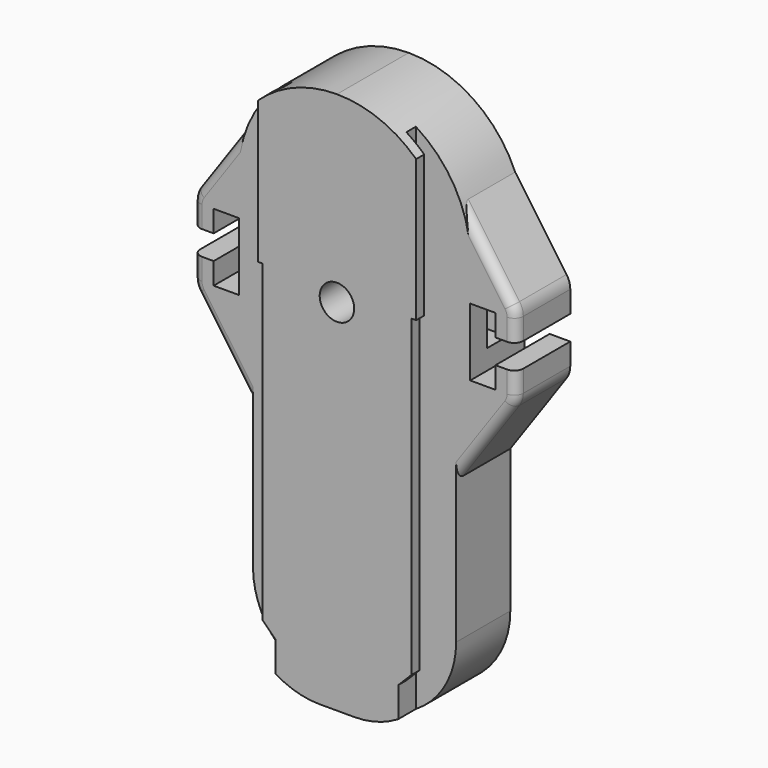
from build123d import *

# Parameters (mm, degrees)
SKETCH_W             = 27.1622
SKETCH_H             = 120.2182
PAD_DEPTH            = 4.8768
SKETCH001_W          = 35.087
SKETCH001_H          = 120.2182
PAD001_DEPTH         = 2.24
SKETCH002_W          = 55.087
SKETCH002_H          = 140.2182
POCKET_DEPTH         = 4.8778
PAD002_DEPTH         = 15
SKETCH004_W          = 71.2318
SKETCH004_H          = 140.2182
POCKET001_DEPTH      = 15.001
POCKET001_DEPTH_BACK = 4.8778
PAD008_DEPTH         = 15
SKETCH018_W          = 5.6
SKETCH018_H          = 15.6
POCKET007_DEPTH      = 31.2159
SKETCH019_W          = 8.22
SKETCH019_H          = 8.22
POCKET008_DEPTH      = 110.739
SKETCH022_R          = 3.8179
POCKET010_DEPTH      = 9.525
FILLET006_R          = 2
FILLET007_R          = 2
POCKET015_DEPTH      = 31.2159
POCKET016_DEPTH      = 8.22


with BuildPart() as part:
    # Sketch → Pad (new body)
    with BuildSketch(Plane.XZ):
        with Locations((0, 60.1091)):
            Rectangle(SKETCH_W, SKETCH_H)
    extrude(amount=PAD_DEPTH)

    # Sketch001 → Pad001 (join)
    with BuildSketch(Plane.XZ.offset(4.8768)):
        with Locations((0, 60.1091)):
            Rectangle(SKETCH001_W, SKETCH001_H)
    extrude(amount=-PAD001_DEPTH)

    # Sketch002 → Pocket (cut, through all)
    with BuildSketch(Plane.XZ):
        with Locations((0, 60.1091)):
            Rectangle(SKETCH002_W, SKETCH002_H)
        Polygon((-13.5811, 0), (13.5811, 0), (13.5811, 9.398), (16.464, 12.2936), (16.464, 81.8388), (17.5435, 81.8388), (17.5435, 120.2182), (-17.5435, 120.2182), (-17.5435, 81.8388), (-16.464, 81.8388), (-16.464, 12.2936), (-13.5811, 9.398), align=None, mode=Mode.SUBTRACT)
    extrude(amount=POCKET_DEPTH, mode=Mode.SUBTRACT)

    # Sketch003 → Pad002 (join)
    with BuildSketch(Plane.XZ):
        with BuildLine():
            Line((-22.5044, 0), (22.5044, 0))
            Line((22.5044, 0), (22.5044, 63.215202))
            ThreePointArc((22.75823, 64.3128), (22.568684, 63.778485), (22.5044, 63.215202))
            Line((25.36207, 69.641402), (22.75823, 64.3128))
            ThreePointArc((25.36207, 69.641402), (25.551616, 70.175717), (25.6159, 70.739))
            Line((25.6159, 120.2182), (25.6159, 70.739))
            Line((-25.6159, 120.2182), (25.6159, 120.2182))
            Line((-25.6159, 70.739), (-25.6159, 120.2182))
            ThreePointArc((-25.6159, 70.739), (-25.551616, 70.175717), (-25.36207, 69.641402))
            Line((-25.36207, 69.641402), (-22.75823, 64.3128))
            ThreePointArc((-22.5044, 63.215202), (-22.568684, 63.778485), (-22.75823, 64.3128))
            Line((-22.5044, 63.215202), (-22.5044, 0))
        make_face()
    extrude(amount=-PAD002_DEPTH)

    # Sketch004 → Pocket001 (cut, two sides)
    with BuildSketch(Plane.XZ) as pocket001_sk:
        with Locations((0, 60.1091)):
            Rectangle(SKETCH004_W, SKETCH004_H)
        with BuildLine():
            ThreePointArc((-22.5044, 18.6944), (-17.028937, 5.475463), (-3.81, 0))
            Line((-3.81, 0), (3.81, 0))
            ThreePointArc((3.81, 0), (17.028937, 5.475463), (22.5044, 18.6944))
            Line((22.5044, 18.6944), (22.5044, 59.3128))
            Line((22.5044, 59.3128), (25.6159, 59.3128))
            Line((25.6159, 59.3128), (25.6159, 94.6023))
            ThreePointArc((25.6159, 94.6023), (18.113177, 112.715477), (0, 120.2182))
            ThreePointArc((0, 120.2182), (-18.113177, 112.715477), (-25.6159, 94.6023))
            Line((-25.6159, 94.6023), (-25.6159, 59.3128))
            Line((-25.6159, 59.3128), (-22.5044, 59.3128))
            Line((-22.5044, 59.3128), (-22.5044, 18.6944))
        make_face(mode=Mode.SUBTRACT)
    extrude(amount=-POCKET001_DEPTH, mode=Mode.SUBTRACT)
    extrude(pocket001_sk.sketch, amount=POCKET001_DEPTH_BACK, mode=Mode.SUBTRACT)

    # Sketch014 → Pad008 (join)
    with BuildSketch(Plane.XZ):
        with BuildLine():
            Line((31.2159, 70.739), (31.2159, 75.539))
            Line((31.2159, 75.539), (35.7859, 75.539))
            Line((35.7859, 70.739), (35.7859, 75.539))
            ThreePointArc((34.959425, 68.117756), (35.574386, 69.364774), (35.7859, 70.739))
            Line((22.5044, 50.330137), (34.959425, 68.117756))
            Line((22.5044, 106.147863), (22.5044, 50.330137))
            Line((22.5044, 106.147863), (34.959425, 88.360244))
            ThreePointArc((35.7859, 85.739), (35.574386, 87.113226), (34.959425, 88.360244))
            Line((35.7859, 80.939), (35.7859, 85.739))
            Line((31.2159, 80.939), (35.7859, 80.939))
            Line((31.2159, 80.939), (31.2159, 85.739))
            Line((31.2159, 85.739), (25.6159, 85.739))
            Line((25.6159, 85.739), (25.6159, 70.739))
            Line((25.6159, 70.739), (31.2159, 70.739))
        make_face()
    pad008 = extrude(amount=-PAD008_DEPTH)

    # Mirrored001: Pad008 across Sketch014 V_Axis
    add(pad008.mirror(Plane(origin=(0, 0, 0), x_dir=(0, -1, 0), z_dir=(1, 0, 0))))

    # Sketch018 → Pocket007 (cut, symmetric)
    with BuildSketch(Plane.YZ):
        with Locations((7.5, 82.939)):
            Rectangle(SKETCH018_W, SKETCH018_H)
    extrude(amount=POCKET007_DEPTH, both=True, mode=Mode.SUBTRACT)

    # Sketch019 → Pocket008 (cut)
    with BuildSketch(Plane.XY):
        with Locations((0, 8.81)):
            Rectangle(SKETCH019_W, SKETCH019_H)
    extrude(amount=POCKET008_DEPTH, mode=Mode.SUBTRACT)

    # Sketch022 → Pocket010 (cut)
    with BuildSketch(Plane.XZ.offset(4.8768)):
        with Locations((0, 79.6417)):
            Circle(SKETCH022_R)
    extrude(amount=-POCKET010_DEPTH, mode=Mode.SUBTRACT)

    # Fillet006
    fillet006_edges = [part.edges().sort_by_distance(p)[0] for p in [
        (-35.7859, 0, 73.139),
        (35.7859, 0, 83.339),
        (35.7859, 0, 73.139),
        (-35.7859, 0, 83.339),
    ]]
    fillet(fillet006_edges, radius=FILLET006_R)

    # Fillet007
    fillet007_edges = [part.edges().sort_by_distance(p)[0] for p in [
        (4.11, 12.92, 55.370704),
        (-4.11, 12.92, 55.370704),
        (-4.11, 4.7, 37.570704),
        (4.11, 4.7, 37.570704),
    ]]
    fillet(fillet007_edges, radius=FILLET007_R)

    # Sketch030 → Pocket015 (cut, symmetric)
    with BuildSketch(Plane.YZ):
        Polygon((4.7, 90.739), (10.3, 90.739), (7.5, 93.539), align=None)
    extrude(amount=POCKET015_DEPTH, both=True, mode=Mode.SUBTRACT)

    # Sketch031 → Pocket016 (cut)
    with BuildSketch(Plane.XZ.offset(-4.7)):
        Polygon((0, 114.849), (4.11, 110.739), (-4.11, 110.739), align=None)
    extrude(amount=-POCKET016_DEPTH, mode=Mode.SUBTRACT)


solid = part.part
